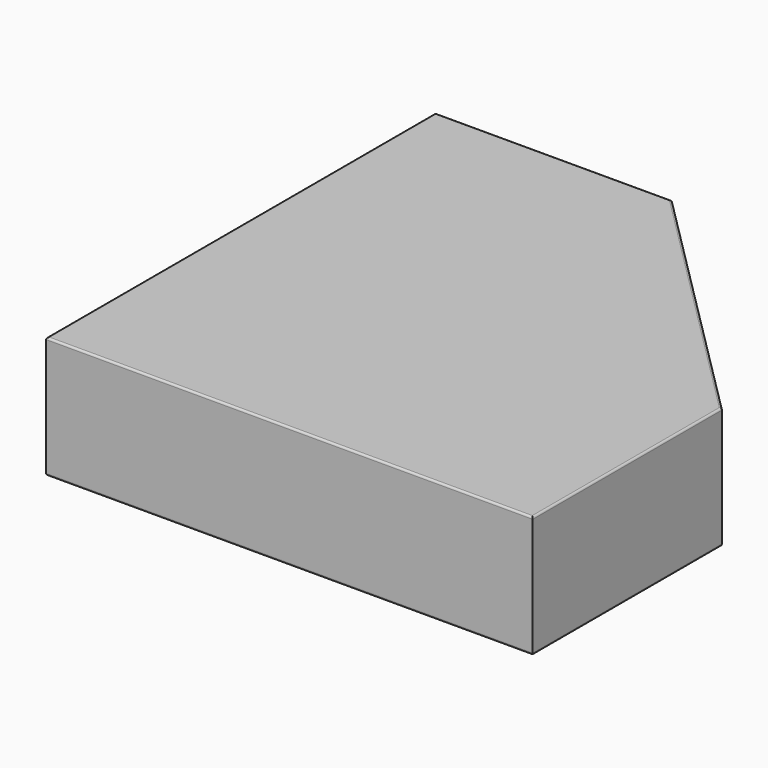
from build123d import *

# Parameters (mm, degrees)
F1_DEPTH = 12.5
F2_R     = 0.2


with BuildPart() as f1:
    # F0 (on Top) → F1 (new body)
    with BuildSketch(Plane.XY):
        Polygon((0, 50), (0, 0), (50, 0), (50, 24.3), (24.3, 50), align=None)
    extrude(amount=-F1_DEPTH)

    # F2
    f2_edges = [f1.edges().sort_by_distance(p)[0] for p in [
        (12.15, 50, 0),
        (0, 25, 0),
        (25, 0, 0),
        (50, 12.15, 0),
        (37.15, 37.15, 0),
        (12.15, 50, -12.5),
        (0, 25, -12.5),
        (25, 0, -12.5),
        (50, 12.15, -12.5),
        (37.15, 37.15, -12.5),
    ]]
    fillet(f2_edges, radius=F2_R)


solid = f1.part
